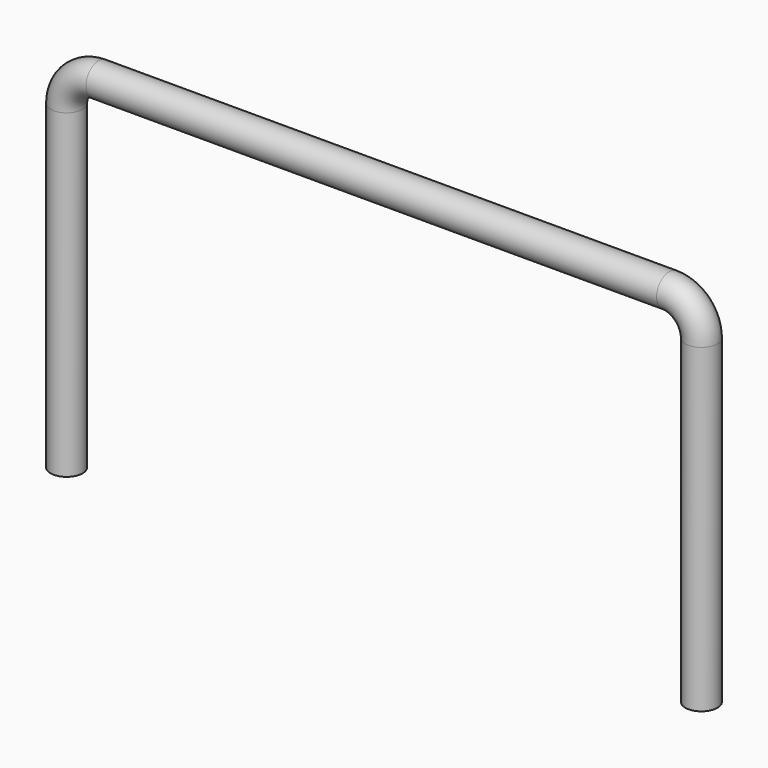
from build123d import *

# Parameters (mm, degrees)
F0_R = 1


with BuildPart() as f2:
    # F2: sweep along a path in F1
    with BuildLine(Plane.XZ) as f2_path:
        Line((-19.811615, 0), (-19.811615, 20))
        ThreePointArc((-19.811615, 20), (-19.225829, 21.414214), (-17.811615, 22))
        Line((-17.811615, 22), (0, 22))
        Line((0, 22), (17.811615, 22))
        ThreePointArc((17.811615, 22), (19.225829, 21.414214), (19.811615, 20))
        Line((19.811615, 20), (19.811615, 0))
    # F0 (on Top) → F2 (sweep)
    with BuildSketch(Plane.XY):
        with Locations((-19.811615, 0)):
            Circle(F0_R)
    sweep(path=f2_path.line)


solid = f2.part
